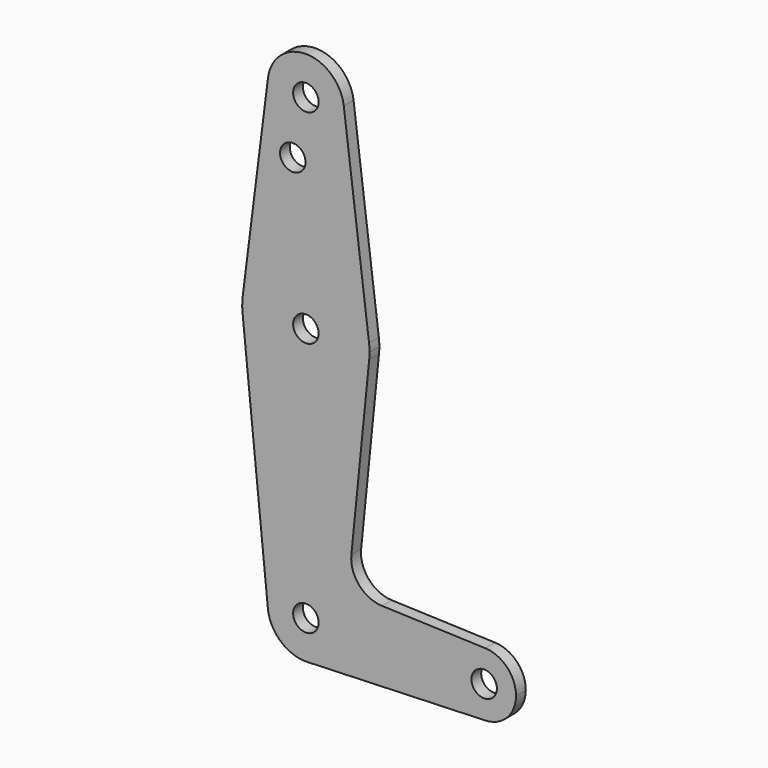
from build123d import *

# Parameters (mm, degrees)
F0_R     = 3.175
F1_DEPTH = 1.524


with BuildPart() as f1:
    # F0 (on Front) → F1 (new body, symmetric)
    with BuildSketch(Plane.XZ):
        with BuildLine():
            ThreePointArc((-35.918114, 57.284136), (-27.064304, 46.587206), (-16.942821, 56.093511))
            ThreePointArc((-16.942821, 56.093511), (-16.961516, 56.689994), (-17.017528, 57.284136))
            ThreePointArc((-17.017528, 57.284136), (-26.467821, 65.618511), (-35.918114, 57.284136))
        make_face()
        with Locations((-26.467821, 56.093511)):
            Circle(F0_R, mode=Mode.SUBTRACT)
        with BuildLine():
            ThreePointArc((-17.017528, 57.284136), (-16.961516, 56.689994), (-16.942821, 56.093511))
            ThreePointArc((-16.942821, 56.093511), (-27.064304, 46.587206), (-35.918114, 57.284136))
            Line((-35.918114, 57.284136), (-42.218309, 7.277886))
            ThreePointArc((-42.218309, 7.277886), (-26.467821, 21.168511), (-10.717333, 7.277886))
            Line((-10.717333, 7.277886), (-17.017528, 57.284136))
        make_face()
        with Locations((-29.732282, 41.818711)):
            Circle(F0_R, mode=Mode.SUBTRACT)
        with BuildLine():
            ThreePointArc((-10.592821, 5.293511), (-10.623979, 6.287649), (-10.717333, 7.277886))
            ThreePointArc((-10.717333, 7.277886), (-26.467821, 21.168511), (-42.218309, 7.277886))
            ThreePointArc((-42.218309, 7.277886), (-42.341565, 5.493216), (-42.263246, 3.706011))
            ThreePointArc((-42.263246, 3.706011), (-26.467821, -10.581489), (-10.672395, 3.706011))
            ThreePointArc((-10.672395, 3.706011), (-10.612727, 4.498764), (-10.592821, 5.293511))
        make_face()
        with Locations((-26.467821, 5.293511)):
            Circle(F0_R, mode=Mode.SUBTRACT)
        with BuildLine():
            ThreePointArc((-10.672395, 3.706011), (-26.467821, -10.581489), (-42.263246, 3.706011))
            Line((-42.263246, 3.706011), (-35.945076, -59.158989))
            ThreePointArc((-35.945076, -59.158989), (-26.944669, -48.693433), (-16.942821, -58.206489))
            ThreePointArc((-16.942821, -58.206489), (-19.613413, -64.820317), (-26.127642, -67.725413))
            Line((-26.127642, -67.725413), (18.265661, -66.138926))
            ThreePointArc((18.265661, -66.138926), (10.044679, -58.206489), (18.265661, -50.274053))
            Line((18.265661, -50.274053), (-7.500221, -49.353256))
            ThreePointArc((-7.500221, -49.353256), (-13.206621, -46.63513), (-15.126634, -40.613108))
            Line((-15.126634, -40.613108), (-10.672395, 3.706011))
        make_face()
        with BuildLine():
            ThreePointArc((-16.942821, -58.206489), (-26.944669, -48.693433), (-35.945076, -59.158989))
            ThreePointArc((-35.945076, -59.158989), (-32.730204, -65.383409), (-26.127642, -67.725413))
            ThreePointArc((-26.127642, -67.725413), (-19.613413, -64.820317), (-16.942821, -58.206489))
        make_face()
        with Locations((-26.467821, -58.206489)):
            Circle(F0_R, mode=Mode.SUBTRACT)
        with BuildLine():
            ThreePointArc((18.265661, -50.274053), (10.044679, -58.206489), (18.265661, -66.138926))
            ThreePointArc((18.265661, -66.138926), (23.694186, -63.718012), (25.919679, -58.206489))
            ThreePointArc((25.919679, -58.206489), (23.694186, -52.694967), (18.265661, -50.274053))
        make_face()
        with Locations((17.982179, -58.206489)):
            Circle(F0_R, mode=Mode.SUBTRACT)
    extrude(amount=F1_DEPTH, both=True)


solid = f1.part
